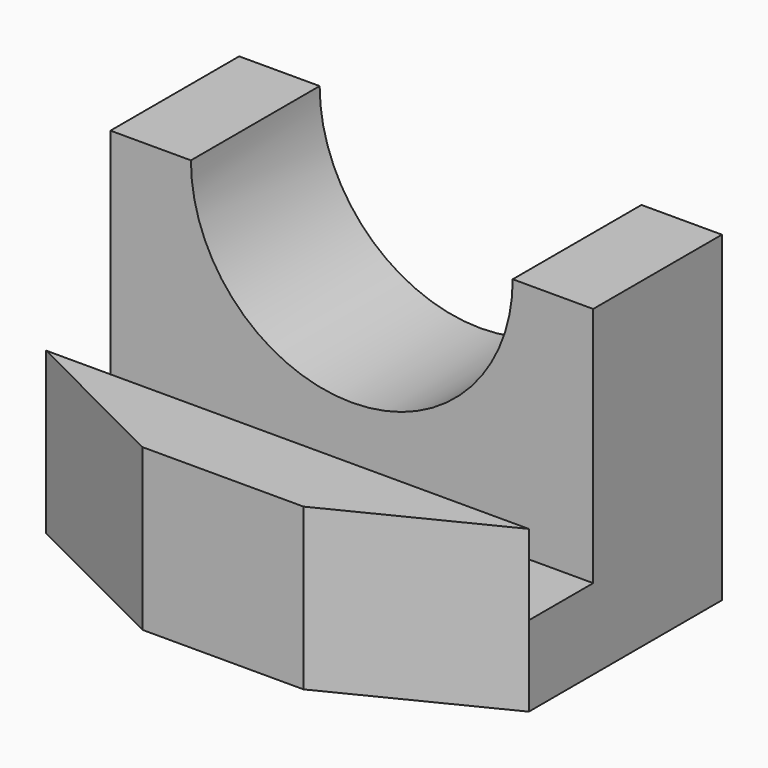
from build123d import *

# Parameters (mm, degrees)
F1_DEPTH = 60
F3_DEPTH = 20
F5_DEPTH = 20


with BuildPart() as f1:
    # F0 (on Right) → F1 (new body)
    with BuildSketch(Plane.YZ):
        Polygon((-40, 0), (0, 0), (0, 40), (-20, 40), (-20, 10), (-30, 10), (-30, 20), (-40, 20), align=None)
    extrude(amount=-F1_DEPTH)

    # F2 (on face) → F3 (cut, through all)
    with BuildSketch(Plane(origin=(0, 0, 0), x_dir=(-1, 0, 0), z_dir=(0, 1, 0))):
        with BuildLine():
            ThreePointArc((10, 40), (30, 20), (50, 40))
            Line((50, 40), (10, 40))
        make_face()
    extrude(amount=-F3_DEPTH, mode=Mode.SUBTRACT)

    # F4 (on face) → F5 (cut, through all)
    with BuildSketch(Plane.XY.offset(20)):
        Polygon((0, -40), (0, -30), (-20, -40), align=None)
        Polygon((-60, -40), (-40, -40), (-60, -30), align=None)
    extrude(amount=-F5_DEPTH, mode=Mode.SUBTRACT)


solid = f1.part
